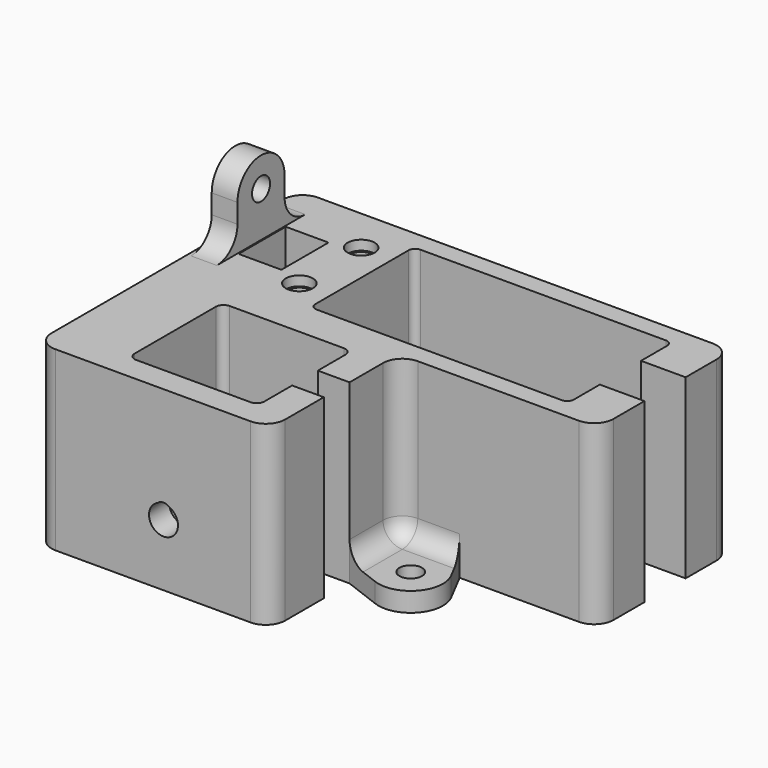
from build123d import *

# Parameters (mm, degrees)
SKETCH042_R     = 1.75
SKETCH042_W     = 6.65
SKETCH042_H     = 9.15
PAD015_DEPTH    = 27.5
SKETCH055_W     = 6.65
SKETCH055_H     = 9.15
SKETCH055_W_2   = 12
SKETCH055_H_2   = 18.15
PAD023_DEPTH    = 5
SKETCH056_R     = 1.75
PAD024_DEPTH    = 4
SKETCH057_R     = 1.75
PAD025_DEPTH    = 3
POCKET028_DEPTH = 13.5
SKETCH059_R     = 2.1
POCKET029_DEPTH = 1.5
FILLET_R        = 3


with BuildPart() as part:
    # Sketch042 → Pad015 (new body)
    with BuildSketch(Plane(origin=(0, 0, 0), x_dir=(-1, 0, 0), z_dir=(0, 0, -1))):
        with BuildLine():
            Line((-28.5, -38), (1.8, -38))
            ThreePointArc((1.8, -38), (3.9213203436, -37.1213203436), (4.8, -35))
            Line((4.8, -35), (4.8, 10))
            ThreePointArc((4.8, 10), (3.9213203436, 12.1213203436), (1.8, 13))
            Line((1.8, 13), (-59.5, 13))
            ThreePointArc((-59.5, 13), (-61.6213203436, 12.1213203436), (-62.5, 10))
            Line((-62.5, 10), (-62.5, 4))
            Line((-62.5, 4), (-55.575, 4))
            Line((-55.575, 9.075), (-55.575, 4))
            ThreePointArc((-54.575, 10.075), (-55.2821067812, 9.7821067812), (-55.575, 9.075))
            Line((-16.425, 10.075), (-54.575, 10.075))
            ThreePointArc((-15.425, 9.075), (-15.7178932188, 9.7821067812), (-16.425, 10.075))
            Line((-15.425, -9.075), (-15.425, 9.075))
            ThreePointArc((-16.425, -10.075), (-15.7178932188, -9.7821067812), (-15.425, -9.075))
            Line((-54.575, -10.075), (-16.425, -10.075))
            ThreePointArc((-55.575, -9.075), (-55.2821067812, -9.7821067812), (-54.575, -10.075))
            Line((-55.575, -4), (-55.575, -9.075))
            Line((-62.5, -4), (-55.575, -4))
            Line((-62.5, -4), (-62.5, -10))
            ThreePointArc((-62.5, -10), (-61.6213203436, -12.1213203436), (-59.5, -13))
            Line((-59.5, -13), (-34.5, -13))
            ThreePointArc((-31.5, -16), (-32.3786796564, -13.8786796564), (-34.5, -13))
            Line((-31.5, -16), (-31.5, -22.5))
            Line((-26.575, -22.5), (-31.5, -22.5))
            Line((-26.575, -17.125), (-26.575, -22.5))
            ThreePointArc((-25.375, -15.925), (-26.2235281374, -16.2764718626), (-26.575, -17.125))
            Line((-7.625, -15.925), (-25.375, -15.925))
            ThreePointArc((-6.425, -17.125), (-6.7764718626, -16.2764718626), (-7.625, -15.925))
            Line((-6.425, -32.875), (-6.425, -17.125))
            ThreePointArc((-7.625, -34.075), (-6.7764718626, -33.7235281374), (-6.425, -32.875))
            Line((-25.375, -34.075), (-7.625, -34.075))
            ThreePointArc((-26.575, -32.875), (-26.2235281374, -33.7235281374), (-25.375, -34.075))
            Line((-26.575, -27.5), (-26.575, -32.875))
            Line((-31.5, -27.5), (-26.575, -27.5))
            Line((-31.5, -27.5), (-31.5, -35))
            ThreePointArc((-31.5, -35), (-30.6213203436, -37.1213203436), (-28.5, -38))
        make_face()
        with Locations((-10.5, 6)):
            Circle(SKETCH042_R, mode=Mode.SUBTRACT)
        with Locations((-10.5, -6)):
            Circle(SKETCH042_R, mode=Mode.SUBTRACT)
        with Locations((-3.25, 0)):
            Rectangle(SKETCH042_W, SKETCH042_H, mode=Mode.SUBTRACT)
    extrude(amount=-PAD015_DEPTH)

    # Sketch055 → Pad023 (join)
    with BuildSketch(Plane(origin=(0, 0, 0), x_dir=(-1, 0, 0), z_dir=(0, 0, -1))):
        with Locations((-3.25, 0)):
            Rectangle(SKETCH055_W, SKETCH055_H)
        with Locations((-12.425, -25)):
            Rectangle(SKETCH055_W_2, SKETCH055_H_2)
    extrude(amount=-PAD023_DEPTH)

    # Sketch056 → Pad024 (join)
    with BuildSketch(Plane.YZ.offset(-0.25)):
        with BuildLine():
            Line((-8.575, 27.5), (8.575, 27.5))
            ThreePointArc((4.575, 31.5), (5.7465728753, 28.6715728753), (8.575, 27.5))
            Line((4.575, 31.5), (4.575, 34.5))
            ThreePointArc((4.575, 34.5), (0, 39.075), (-4.575, 34.5))
            Line((-4.575, 34.5), (-4.575, 31.5))
            ThreePointArc((-8.575, 27.5), (-5.7465728753, 28.6715728753), (-4.575, 31.5))
        make_face()
        with Locations((0, 34.5)):
            Circle(SKETCH056_R, mode=Mode.SUBTRACT)
    extrude(amount=-PAD024_DEPTH)

    # Sketch057 → Pad025 (join)
    with BuildSketch(Plane.XY):
        with BuildLine():
            ThreePointArc((34.5, -13), (32.3786796564, -13.8786796564), (31.5, -16))
            Line((31.5, -16), (31.5, -22.5))
            Line((31.5, -22.5), (37.2247448714, -24.6742346142))
            ThreePointArc((37.2247448714, -24.6742346142), (42.7342236735, -23.3249922641), (43.4377847505, -17.6965099287))
            Line((43.4377847505, -17.6965099287), (41, -13))
            Line((34.5, -13), (41, -13))
        make_face()
        with Locations((39, -20)):
            Circle(SKETCH057_R, mode=Mode.SUBTRACT)
        with BuildLine():
            Line((20.2, 13), (38.2, 13))
            ThreePointArc((34.2, 17), (35.3715728753, 14.1715728753), (38.2, 13))
            Line((34.2, 17), (34.2, 20))
            ThreePointArc((34.2, 20), (29.2, 25), (24.2, 20))
            Line((24.2, 17), (24.2, 20))
            ThreePointArc((20.2, 13), (23.0284271247, 14.1715728753), (24.2, 17))
        make_face()
        with Locations((29.2, 20)):
            Circle(SKETCH057_R, mode=Mode.SUBTRACT)
    extrude(amount=PAD025_DEPTH)

    # Sketch058 → Pocket028 (cut, symmetric)
    with BuildSketch(Plane(origin=(15, -25, 9.6), x_dir=(1, 0, 0), z_dir=(0, -1, 0))):
        with BuildLine():
            ThreePointArc((-0.9245936608, 2.05125), (0, -2.25), (0.9245936608, 2.05125))
            ThreePointArc((0.9245936608, 2.05125), (0, 2.4), (-0.9245936608, 2.05125))
        make_face()
    extrude(amount=POCKET028_DEPTH, both=True, mode=Mode.SUBTRACT)

    # Sketch059 (on Face5 of Pocket028) → Pocket029 (cut)
    with BuildSketch(Plane.XY.offset(27.5)):
        with Locations((10.5, 6)):
            Circle(SKETCH059_R)
        with Locations((10.5, -6)):
            Circle(SKETCH059_R)
    extrude(amount=-POCKET029_DEPTH, mode=Mode.SUBTRACT)

    # Fillet
    fillet_edges = [part.edges().sort_by_distance(p)[0] for p in [
        (32.37868, -13.87868, 3),
        (29.2, 13, 3),
    ]]
    fillet(fillet_edges, radius=FILLET_R)


solid = part.part
